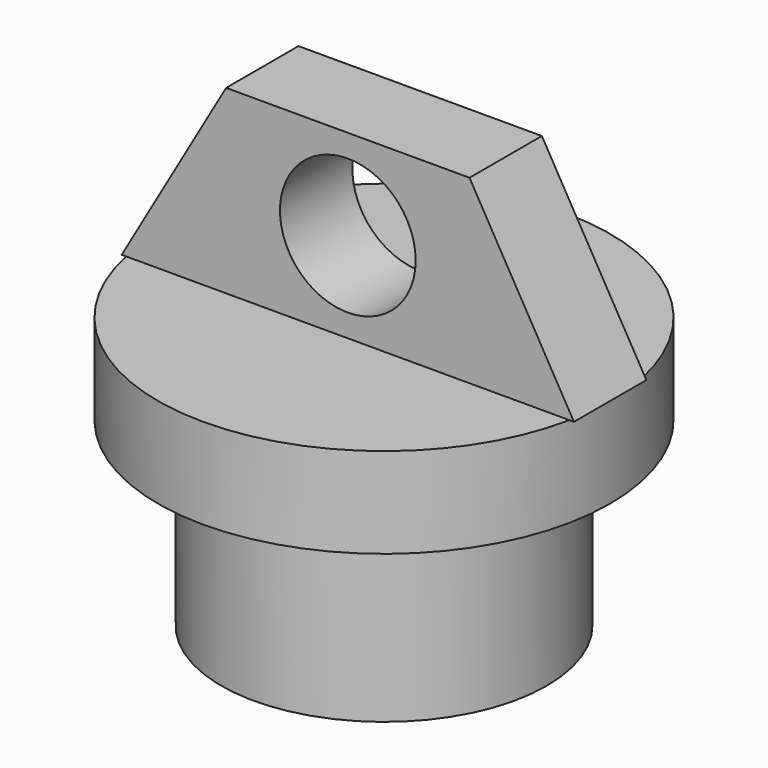
from build123d import *

# Parameters (mm, degrees)
F0_R     = 22.86
F1_DEPTH = 25.4
F2_R     = 31.75
F3_DEPTH = 12.7
F4_R     = 9.525
F5_DEPTH = 6.35


with BuildPart() as f1:
    # F0 (on Top) → F1 (new body)
    with BuildSketch(Plane.XY):
        Circle(F0_R)
    extrude(amount=F1_DEPTH)

    # F2 (on face) → F3 (join)
    with BuildSketch(Plane.XY.offset(25.4)):
        Circle(F2_R)
    extrude(amount=F3_DEPTH)

    # F4 (on Front) → F5 (join, symmetric)
    with BuildSketch(Plane.XZ):
        Polygon((-31.75, 38.1), (0, 38.1), (31.75, 38.1), (17.085303, 63.5), (0, 63.5), (-17.085303, 63.5), align=None)
        with Locations((0, 50.8)):
            Circle(F4_R, mode=Mode.SUBTRACT)
    extrude(amount=F5_DEPTH, both=True)


solid = f1.part
